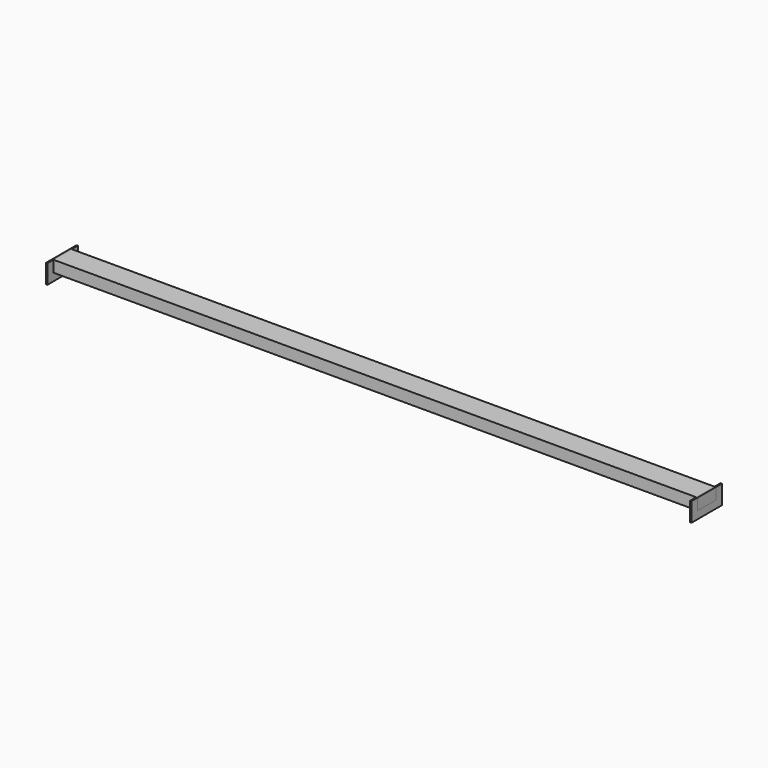
from build123d import *

# Parameters (mm, degrees)
F0_W       = 2532
F0_H       = 90
F1_DEPTH   = 45
F1_FACE1_W = 90
F1_FACE1_H = 45
F3_DEPTH   = 5
F6_DEPTH   = 5
F7_DEPTH   = 5


with BuildPart() as f1:
    # F0 (on Top) → F1 (new body)
    with BuildSketch(Plane.XY):
        with Locations((1266, 45)):
            Rectangle(F0_W, F0_H)
    extrude(amount=F1_DEPTH)

    # F2 (on face) + F1_face1 (on face) → F3 (join)
    with BuildSketch(Plane.YZ.offset(2532)):
        Polygon((120, -30), (120, 45), (90, 45), (90, 0), (0, 0), (0, 45), (-30, 45), (-30, -30), align=None)
    with BuildSketch(Plane(origin=(0, 45, 22.5), x_dir=(0, -1, 0), z_dir=(-1, 0, 0))):
        Rectangle(F1_FACE1_W, F1_FACE1_H)
    extrude(amount=F3_DEPTH, dir=(1, 0, 0))

    # F5: F1 across plane


with BuildPart() as f1_1:
    add(f1.part)
    add(f1.part.mirror(Plane(origin=(1266, 45, 22.5), x_dir=(0, -1, 0), z_dir=(-1, 0, 0))))


with BuildPart() as f6:
    # F6 (new): a face of the model
    f6_faces = [f1_1.part.faces().sort_by_distance(p)[0] for p in [
        (0, 45, 22.5),
    ]]
    extrude(f6_faces, amount=F6_DEPTH)


with BuildPart() as f7:
    # F7 (new): a face of the model
    f7_faces = [f1_1.part.faces().sort_by_distance(p)[0] for p in [
        (2532, 45, 22.5),
    ]]
    extrude(f7_faces, amount=F7_DEPTH)


solid = Compound([f1_1.part, f6.part, f7.part])
